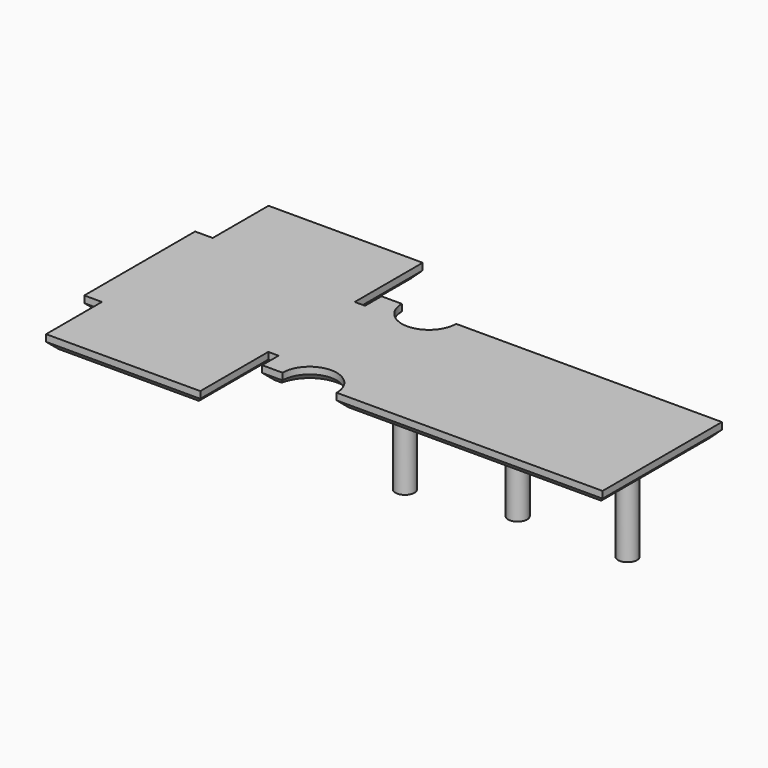
from build123d import *

# Parameters (mm, degrees)
CYLINDER044_R     = 1.4
CYLINDER044_DEPTH = 11
CYLINDER046_R     = 1.4
CYLINDER046_DEPTH = 11
CYLINDER047_R     = 1.4
CYLINDER047_DEPTH = 11
BOX059_W          = 15
BOX059_H          = 4.5
BOX059_DEPTH      = 4
FILLET009_R       = 0.5
PAD025_DEPTH      = 2
CHAMFER007_SIZE   = 1
CYLINDER045_R     = 1.4
CYLINDER045_DEPTH = 11


with BuildPart() as cylinder044:
    # Cylinder044 → Cylinder044 (new body)
    with BuildSketch(Plane(origin=(44.6, -3.4, -4.4), x_dir=(1, 0, 0), z_dir=(0, 0, 1))):
        Circle(CYLINDER044_R)
    extrude(amount=CYLINDER044_DEPTH)


with BuildPart() as cylinder046:
    # Cylinder046 → Cylinder046 (new body)
    with BuildSketch(Plane(origin=(30.3, -6.3, -4.4), x_dir=(1, 0, 0), z_dir=(0, 0, 1))):
        Circle(CYLINDER046_R)
    extrude(amount=CYLINDER046_DEPTH)


with BuildPart() as cylinder047:
    # Cylinder047 → Cylinder047 (new body)
    with BuildSketch(Plane(origin=(37.6, 8.5, -4.4), x_dir=(1, 0, 0), z_dir=(0, 0, 1))):
        Circle(CYLINDER047_R)
    extrude(amount=CYLINDER047_DEPTH)


with BuildPart() as fillet009:
    # Box059 → Box059 (new body)
    with BuildSketch(Plane(origin=(-7.4, -2.25, 2), x_dir=(1, 0, 0), z_dir=(0, 0, 1))):
        with Locations((7.5, 2.25)):
            Rectangle(BOX059_W, BOX059_H)
    extrude(amount=BOX059_DEPTH)

    # Fillet009
    fillet009_edges = [fillet009.edges().sort_by_distance(p)[0] for p in [
        (-7.4, 0, 2),
        (7.6, 0, 2),
        (0.1, -2.25, 2),
        (0.1, 2.25, 2),
    ]]
    fillet(fillet009_edges, radius=FILLET009_R)


with BuildPart() as chamfer007:
    # Sketch030 → Pad025 (new body)
    with BuildSketch(Plane.XY):
        with BuildLine():
            Line((-11.26, 20.5), (-11.26, 10.212751))
            Line((-11.26, 10.212751), (-13.853027, 10.212751))
            Line((-13.853027, 10.212751), (-13.853027, -10.212751))
            Line((-11.26, -10.212751), (-13.853027, -10.212751))
            Line((-11.26, -20.5), (-11.26, -10.212751))
            Line((11.48, -20.5), (-11.26, -20.5))
            Line((11.48, -7.97), (11.48, -20.5))
            Line((13, -7.97), (11.48, -7.97))
            Line((13, -11), (13, -7.97))
            Line((16, -11), (13, -11))
            ThreePointArc((24, -11), (20, -7), (16, -11))
            Line((63.2, -11), (24, -11))
            Line((63.2, 11), (63.2, -11))
            Line((63.2, 11), (24, 11))
            ThreePointArc((16, 11), (20, 7), (24, 11))
            Line((16, 11), (13, 11))
            Line((13, 11), (13, 7.97))
            Line((13, 7.97), (11.48, 7.97))
            Line((11.48, 7.97), (11.48, 20.5))
            Line((11.48, 20.5), (-11.26, 20.5))
        make_face()
    extrude(amount=PAD025_DEPTH)

    # Chamfer007
    chamfer007_edges = [chamfer007.edges().sort_by_distance(p)[0] for p in [
        (14.5, 11, 0),
        (13, 9.485, 0),
        (12.24, 7.97, 0),
        (11.48, 14.235, 0),
        (0.11, 20.5, 0),
        (-11.26, 15.356376, 0),
        (-12.556514, 10.212751, 0),
        (-13.853027, 0, 0),
        (-12.556514, -10.212751, 0),
        (-11.26, -15.356376, 0),
        (0.11, -20.5, 0),
        (11.48, -14.235, 0),
        (12.24, -7.97, 0),
        (13, -9.485, 0),
        (14.5, -11, 0),
        (20, -7, 0),
        (43.6, -11, 0),
        (63.2, 0, 0),
        (43.6, 11, 0),
        (20, 7, 0),
    ]]
    chamfer(chamfer007_edges, length=CHAMFER007_SIZE)


with BuildPart() as chamfer007_1:
    # Chamfer007 placement: moved
    add(chamfer007.part.moved(Location((0, 0, 6))))


with BuildPart() as f_04_pcbcoverbig:
    # Cylinder045 → Cylinder045 (new body)
    with BuildSketch(Plane(origin=(60.8, -3.4, -4.4), x_dir=(1, 0, 0), z_dir=(0, 0, 1))):
        Circle(CYLINDER045_R)
    extrude(amount=CYLINDER045_DEPTH)

    # Fusion047: union Cylinder044, Cylinder046, Cylinder047, Fillet009, Chamfer007
    add(cylinder044.part)
    add(cylinder046.part)
    add(cylinder047.part)
    add(fillet009.part)
    add(chamfer007_1.part)


solid = f_04_pcbcoverbig.part
